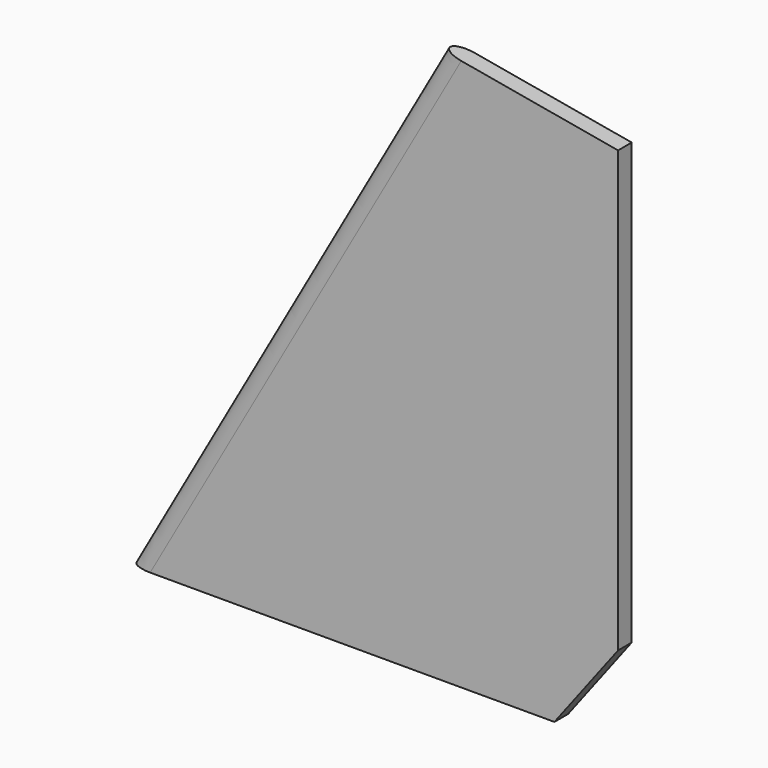
from build123d import *

# Parameters (mm, degrees)
F1_DEPTH = 1.190625
F4_DEPTH = 100.9182092655


with BuildPart() as f1:
    # F0 (on Front) → F1 (new body, symmetric)
    with BuildSketch(Plane.XZ):
        Polygon((0, 0), (47.244, 0), (56.134, 11.684), (56.134, 57.6660068989), (34.6639213115, 61.468), align=None)
        Polygon((47.244, 0), (52.578, 0), (61.468, 11.684), (61.468, 64.8230381148), (38.8178622951, 68.834), (34.6639213115, 61.468), (56.134, 57.6660068989), (56.134, 11.684), align=None)
        Polygon((52.578, 0), (59.182, 0), (68.072, 11.684), (68.072, 73.152), (43.688, 77.47), (38.8178622951, 68.834), (61.468, 64.8230381148), (61.468, 11.684), align=None)
    extrude(amount=F1_DEPTH, both=True)

    # F3 (on line) → F4 (cut, through all)
    with BuildSketch(Plane(origin=(0, 0, 0), x_dir=(0.8710411332, 0, -0.4912100817), z_dir=(0.4912100817, 0, 0.8710411332))):
        with BuildLine():
            Line((2.38125, 1.190625), (23.3605121239, 1.190625))
            Line((23.3605121239, 1.190625), (23.3605121239, 12.7))
            Line((23.3605121239, 12.7), (-12.7, 12.7))
            Line((-12.7, 12.7), (-12.7, -12.7))
            Line((-12.7, -12.7), (23.3605121239, -12.7))
            Line((23.3605121239, -12.7), (23.3605121239, -1.190625))
            Line((23.3605121239, -1.190625), (2.38125, -1.190625))
            add(Edge.make_bspline(
                [(0, 0), (0, -1.190625), (2.38125, -1.190625)],
                knots=[0, 0, 0, 1.5707963268, 1.5707963268, 1.5707963268], degree=2, weights=[1, 0.7071067812, 1]))
            add(Edge.make_bspline(
                [(2.38125, 1.190625), (0, 1.190625), (0, 0)],
                knots=[4.7123889804, 4.7123889804, 4.7123889804, 6.2831853072, 6.2831853072, 6.2831853072], degree=2, weights=[1, 0.7071067812, 1]))
        make_face()
    extrude(amount=F4_DEPTH, mode=Mode.SUBTRACT)


solid = f1.part
